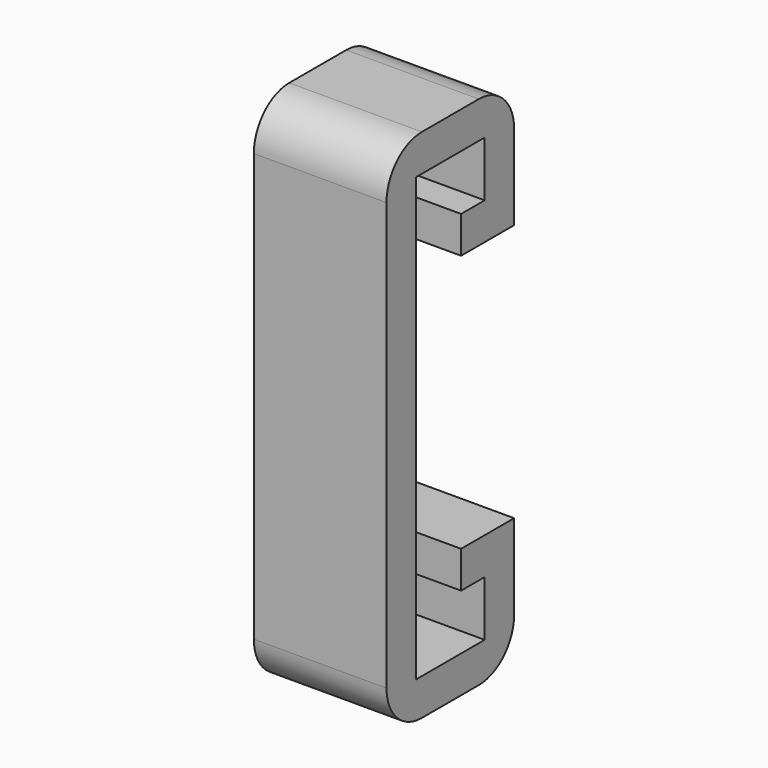
from build123d import *

# Parameters (mm, degrees)
F1_DEPTH = 5.715
F2_SIZE  = 1.778


with BuildPart() as f1:
    # F0 (on Right) → F1 (new body, symmetric)
    with BuildSketch(Plane.YZ):
        with BuildLine():
            Line((0, -19.05), (0, 0))
            Line((0, 0), (0, 19.05))
            Line((0, 19.05), (7.39775, 19.05))
            Line((7.39775, 19.05), (7.39775, 14.2875))
            Line((7.39775, 14.2875), (4.85775, 14.2875))
            Line((4.85775, 14.2875), (4.85775, 11.1125))
            Line((4.85775, 11.1125), (10.57275, 11.1125))
            Line((10.57275, 11.1125), (10.57275, 18.415))
            ThreePointArc((10.57275, 18.415), (9.456827, 21.109077), (6.76275, 22.225))
            Line((6.76275, 22.225), (0.635, 22.225))
            ThreePointArc((0.635, 22.225), (-2.059077, 21.109077), (-3.175, 18.415))
            Line((-3.175, 18.415), (-3.175, 0))
            Line((-3.175, 0), (-3.175, -18.415))
            ThreePointArc((-3.175, -18.415), (-2.059077, -21.109077), (0.635, -22.225))
            Line((0.635, -22.225), (6.76275, -22.225))
            ThreePointArc((6.76275, -22.225), (9.456827, -21.109077), (10.57275, -18.415))
            Line((10.57275, -18.415), (10.57275, -11.1125))
            Line((10.57275, -11.1125), (4.85775, -11.1125))
            Line((4.85775, -11.1125), (4.85775, -14.2875))
            Line((4.85775, -14.2875), (7.39775, -14.2875))
            Line((7.39775, -14.2875), (7.39775, -19.05))
            Line((7.39775, -19.05), (0, -19.05))
        make_face()
    extrude(amount=F1_DEPTH, both=True)

    # F2
    f2_edges = [f1.edges().sort_by_distance(p)[0] for p in [
        (-5.715, 3.698875, -19.05),
        (-5.715, 0, 0),
        (-5.715, 3.698875, 19.05),
    ]]
    chamfer(f2_edges, length=F2_SIZE)


solid = f1.part
